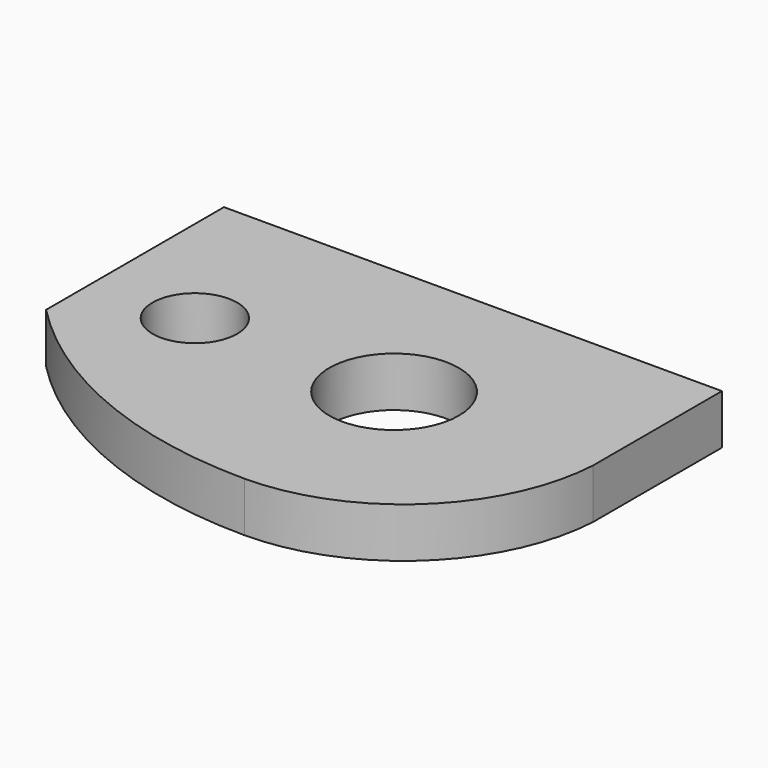
from build123d import *

# Parameters (mm, degrees)
F0_R     = 4.25
F0_R_2   = 11.5
F0_R_3   = 6.5
F1_DEPTH = 5


with BuildPart() as f1:
    # F0 (on Top) → F1 (new body)
    with BuildSketch(Plane.XY):
        with BuildLine():
            Line((24.217633, -2.15), (24.217633, 14))
            Line((24.217633, 14), (-15.781855, 14))
            Line((-15.781855, 14), (-25.782367, 14))
            Line((-25.782367, 14), (-25.782367, -8.325128))
            ThreePointArc((-25.782367, -8.325128), (-12.029825, -17.702051), (4.285203, -21.000373))
            ThreePointArc((4.285203, -21.000373), (17.992916, -15.531456), (24.217633, -2.15))
        make_face()
        with Locations((-15.782367, -2.15)):
            Circle(F0_R, mode=Mode.SUBTRACT)
        with Locations((4.217633, -2.15)):
            Circle(F0_R_2, mode=Mode.SUBTRACT)
        with Locations((4.217633, -2.15)):
            Circle(F0_R_2)
        with Locations((4.217633, -2.15)):
            Circle(F0_R_3, mode=Mode.SUBTRACT)
    extrude(amount=-F1_DEPTH)


solid = f1.part
